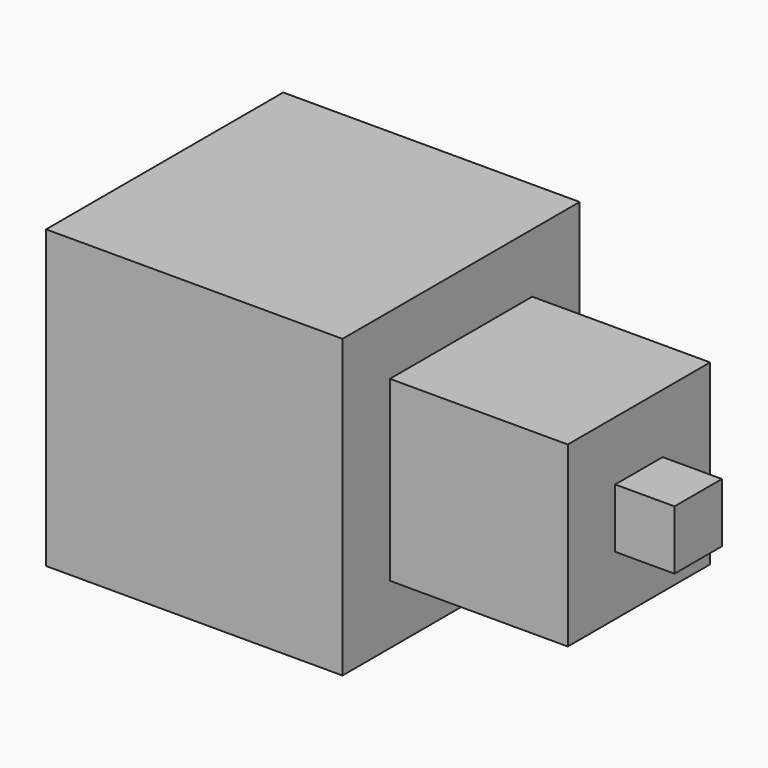
from build123d import *

# Parameters (mm, degrees)
F0_W     = 100
F0_H     = 100
F1_DEPTH = 99.9998
F2_W     = 60
F2_H     = 60
F3_DEPTH = 60
F4_W     = 20
F4_H     = 20
F5_DEPTH = 20


with BuildPart() as f1:
    # F0 (on Right) → F1 (new body)
    with BuildSketch(Plane.YZ):
        with Locations((-0.458728, -3.978418)):
            Rectangle(F0_W, F0_H)
    extrude(amount=F1_DEPTH)

    # F2 (on face) → F3 (join)
    with BuildSketch(Plane.YZ.offset(99.9998)):
        with Locations((-0.458728, -3.978418)):
            Rectangle(F2_W, F2_H)
    extrude(amount=F3_DEPTH)

    # F4 (on face) → F5 (join)
    with BuildSketch(Plane.YZ.offset(159.9998)):
        with Locations((-0.458728, -3.978418)):
            Rectangle(F4_W, F4_H)
    extrude(amount=F5_DEPTH)


solid = f1.part
